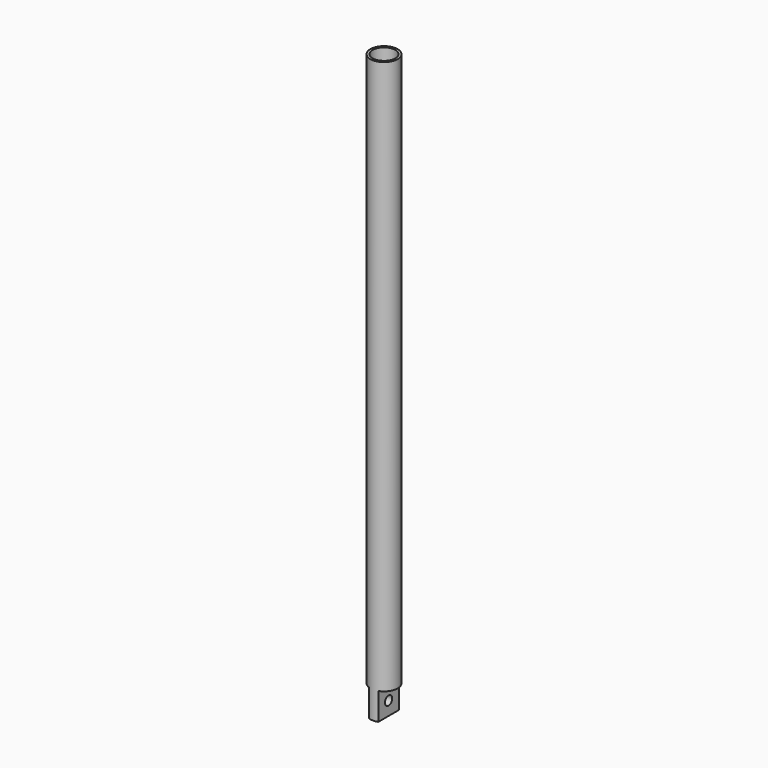
from build123d import *

# Parameters (mm, degrees)
F0_R     = 3
F1_DEPTH = 128
F2_R     = 2.5
F3_DEPTH = 110
F4_W     = 3.289427
F4_H     = 6.793895
F4_W_2   = 3.708657
F4_H_2   = 6.848642
F5_DEPTH = 12.5
F6_R     = 1
F7_DEPTH = 25


with BuildPart() as f1:
    # F0 (on Top) → F1 (new body)
    with BuildSketch(Plane.XY):
        Circle(F0_R)
    extrude(amount=-F1_DEPTH)

    # F2 (on face) → F3 (cut)
    with BuildSketch(Plane.XY):
        Circle(F2_R)
    extrude(amount=-F3_DEPTH, mode=Mode.SUBTRACT)

    # F4 (on Front) → F5 (cut, symmetric)
    with BuildSketch(Plane.XZ):
        with Locations((2.644713, -125.396947)):
            Rectangle(F4_W, F4_H)
        with Locations((-2.854328, -125.424321)):
            Rectangle(F4_W_2, F4_H_2)
    extrude(amount=F5_DEPTH, both=True, mode=Mode.SUBTRACT)

    # F6 (on face) → F7 (cut)
    with BuildSketch(Plane(origin=(-1, 0, 0), x_dir=(0, -1, 0), z_dir=(-1, 0, 0))):
        with Locations((0, -125)):
            Circle(F6_R)
    extrude(amount=-F7_DEPTH, mode=Mode.SUBTRACT)


solid = f1.part
